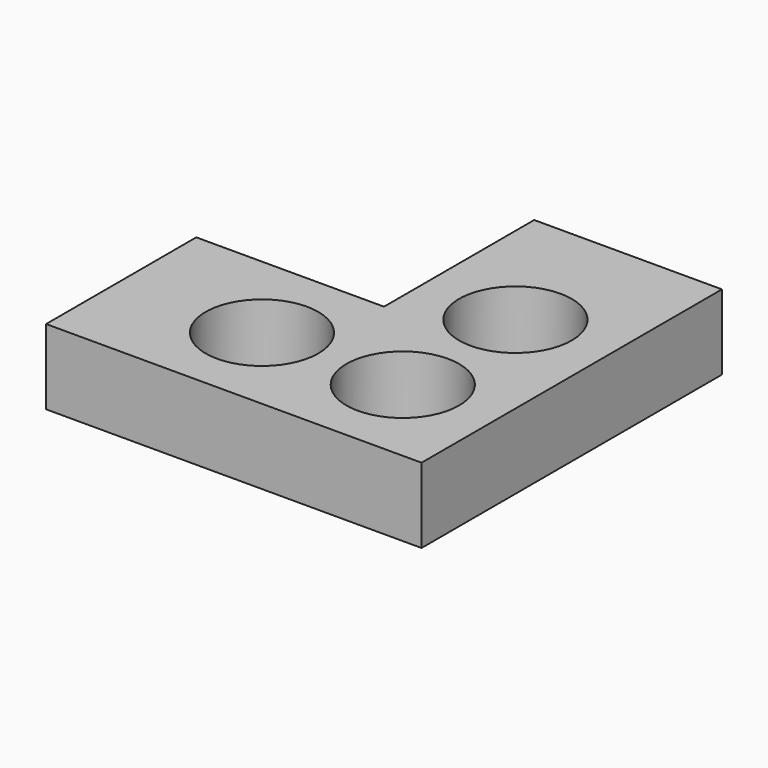
from build123d import *

# Parameters (mm, degrees)
F0_R     = 1.5
F1_DEPTH = 2


with BuildPart() as f1:
    # F0 (on Top) → F1 (new body)
    with BuildSketch(Plane.XY):
        Polygon((23.795815, 21.350004), (23.795815, 16.350004), (33.795815, 16.350004), (33.795815, 21.350004), (33.795815, 26.350004), (28.795815, 26.350004), (28.795815, 21.350004), align=None)
        with Locations((27.545815, 18.850004)):
            Circle(F0_R, mode=Mode.SUBTRACT)
        with Locations((31.295815, 18.850004)):
            Circle(F0_R, mode=Mode.SUBTRACT)
        with Locations((31.295815, 22.600004)):
            Circle(F0_R, mode=Mode.SUBTRACT)
    extrude(amount=F1_DEPTH)


solid = f1.part
